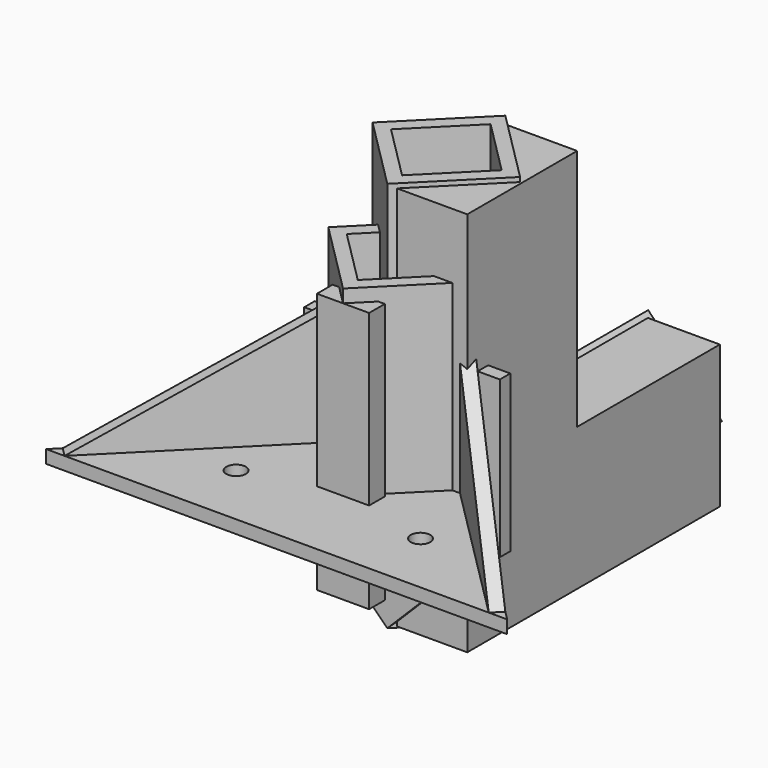
from build123d import *

# Parameters (mm, degrees)
BOX001_W                = 12
BOX001_H                = 100
BOX001_DEPTH            = 30
BOX_W                   = 16
BOX_H                   = 16
BOX_DEPTH               = 20
BOX002_W                = 30
BOX002_H                = 2
BOX002_DEPTH            = 24
CYLINDER001_R           = 1.5
CYLINDER001_DEPTH       = 10
CYLINDER001_PITCH_ANGLE = 90
CYLINDER_R              = 1.5
CYLINDER_DEPTH          = 10
CYLINDER002_R           = 1.5
CYLINDER002_DEPTH       = 10
CYLINDER002_ROLL_ANGLE  = 90
BOX003_W                = 12
BOX003_H                = 12
BOX003_DEPTH            = 100
PAD002_DEPTH            = 2
PAD001_DEPTH            = 2
SKETCH_R                = 1.5
PAD_DEPTH               = 2
BOX004_W                = 16
BOX004_H                = 16
BOX004_DEPTH            = 30
CUT001_PLACEMENT_ANGLE  = 45
BOX005_W                = 12
BOX005_H                = 12
BOX005_DEPTH            = 50
BOX005_PLACEMENT_ANGLE  = 45
BOX006_W                = 12
BOX006_H                = 50
BOX006_DEPTH            = 12
BOX006_PITCH_ANGLE      = 45
PAD003_DEPTH            = 11.6
BOX008_W                = 16
BOX008_H                = 16
BOX008_DEPTH            = 60
BOX008_PLACEMENT_ANGLE  = 45
BOX007_W                = 16
BOX007_H                = 50
BOX007_DEPTH            = 16
BOX007_PITCH_ANGLE      = 45
BOX009_W                = 12
BOX009_H                = 12
BOX009_DEPTH            = 50
BOX009_PLACEMENT_ANGLE  = 45
CYLINDER003_R           = 1.5
CYLINDER003_DEPTH       = 30
CYLINDER003_ROLL_ANGLE  = 90
BOX011_W                = 8
BOX011_H                = 3
BOX011_DEPTH            = 40
BOX010_W                = 16
BOX010_H                = 16
BOX010_DEPTH            = 30
BOX010_PLACEMENT_ANGLE  = 45


with BuildPart() as box001:
    # Box001 → Box001 (new body)
    with BuildSketch(Plane(origin=(-6, 0, 0), x_dir=(1, 0, 0), z_dir=(0, 0, 1))):
        with Locations((6, 50)):
            Rectangle(BOX001_W, BOX001_H)
    extrude(amount=BOX001_DEPTH)


with BuildPart() as box:
    # Box → Box (new body)
    with BuildSketch(Plane(origin=(-8, 0, -2), x_dir=(1, 0, 0), z_dir=(0, 0, 1))):
        with Locations((8, 8)):
            Rectangle(BOX_W, BOX_H)
    extrude(amount=BOX_DEPTH)


with BuildPart() as cut:
    # Box002 → Box002 (new body)
    with BuildSketch(Plane(origin=(-15, 0, -6), x_dir=(1, 0, 0), z_dir=(0, 0, 1))):
        with Locations((15, 1)):
            Rectangle(BOX002_W, BOX002_H)
    extrude(amount=BOX002_DEPTH)

    # Fusion: union Box
    add(box.part)

    # Cut: cut Box001
    add(box001.part, mode=Mode.SUBTRACT)


with BuildPart() as cylinder001:
    # Cylinder001 → Cylinder001 (new body)
    with BuildSketch(Plane.XY):
        Circle(CYLINDER001_R)
    extrude(amount=CYLINDER001_DEPTH)


with BuildPart() as cylinder001_1:
    # Cylinder001 pitch: moved
    add(cylinder001.part.rotate(Axis((0, 0, 0), (0, 1, 0)), CYLINDER001_PITCH_ANGLE))


with BuildPart() as cylinder001_2:
    # Cylinder001 placement: moved
    add(cylinder001_1.part.moved(Location((0, 0, 15))))


with BuildPart() as cylinder:
    # Cylinder → Cylinder (new body)
    with BuildSketch(Plane.XY):
        Circle(CYLINDER_R)
    extrude(amount=CYLINDER_DEPTH)


with BuildPart() as cylinder002:
    # Cylinder002 → Cylinder002 (new body)
    with BuildSketch(Plane.XY):
        Circle(CYLINDER002_R)
    extrude(amount=CYLINDER002_DEPTH)


with BuildPart() as cylinder002_1:
    # Cylinder002 roll: moved
    add(cylinder002.part.rotate(Axis((0, 0, 0), (1, 0, 0)), CYLINDER002_ROLL_ANGLE))


with BuildPart() as cylinder002_2:
    # Cylinder002 placement: moved
    add(cylinder002_1.part.moved(Location((0, 10, 15))))


with BuildPart() as fusion002:
    # Box003 → Box003 (new body)
    with BuildSketch(Plane(origin=(-6, -6, 2), x_dir=(1, 0, 0), z_dir=(0, 0, 1))):
        with Locations((6, 6)):
            Rectangle(BOX003_W, BOX003_H)
    extrude(amount=BOX003_DEPTH)

    # Fusion002: union Cylinder001, Cylinder, Cylinder002
    add(cylinder001_2.part)
    add(cylinder.part)
    add(cylinder002_2.part)


with BuildPart() as pad002:
    # Sketch002 → Pad002 (new body)
    with BuildSketch(Plane.YZ.offset(6)):
        Polygon((-8, 20), (-8, 2), (-40, 2), align=None)
    extrude(amount=PAD002_DEPTH)


with BuildPart() as pad001:
    # Sketch001 → Pad001 (new body)
    with BuildSketch(Plane.XZ.offset(-8)):
        Polygon((-8, 20), (-8, 2), (-40, 2), align=None)
    extrude(amount=PAD001_DEPTH)


with BuildPart() as pad:
    # Sketch → Pad (new body)
    with BuildSketch(Plane.XY):
        Polygon((8, 8), (-42, 8), (8, -42), align=None)
        with Locations((-20, 0)):
            Circle(SKETCH_R, mode=Mode.SUBTRACT)
        with Locations((0, -20)):
            Circle(SKETCH_R, mode=Mode.SUBTRACT)
    extrude(amount=PAD_DEPTH)


with BuildPart() as cut001:
    # Box004 → Box004 (new body)
    with BuildSketch(Plane(origin=(-8, -8, 0), x_dir=(1, 0, 0), z_dir=(0, 0, 1))):
        with Locations((8, 8)):
            Rectangle(BOX004_W, BOX004_H)
    extrude(amount=BOX004_DEPTH)

    # Fusion001: union Pad002, Pad001, Pad
    add(pad002.part)
    add(pad001.part)
    add(pad.part)

    # Cut001: cut Fusion002
    add(fusion002.part, mode=Mode.SUBTRACT)


with BuildPart() as cut001_1:
    # Cut001 placement: moved
    add(cut001.part.rotate(Axis((0, 0, 0), (0, 0, 1)), CUT001_PLACEMENT_ANGLE))


with BuildPart() as box005:
    # Box005 → Box005 (new body)
    with BuildSketch(Plane.XY):
        with Locations((6, 6)):
            Rectangle(BOX005_W, BOX005_H)
    extrude(amount=BOX005_DEPTH)


with BuildPart() as box005_1:
    # Box005 placement: moved
    add(box005.part.rotate(Axis((0, 0, 0), (0, 0, 1)), BOX005_PLACEMENT_ANGLE))


with BuildPart() as fusion004:
    # Box006 → Box006 (new body)
    with BuildSketch(Plane.XY):
        with Locations((6, 25)):
            Rectangle(BOX006_W, BOX006_H)
    extrude(amount=BOX006_DEPTH)


with BuildPart() as fusion004_1:
    # Box006 pitch: moved
    add(fusion004.part.rotate(Axis((0, 0, 0), (0, 1, 0)), BOX006_PITCH_ANGLE))


with BuildPart() as fusion004_2:
    # Box006 placement: moved
    add(fusion004_1.part.moved(Location((-8.48528, 2, -8))))

    # Fusion004: union Box005
    add(box005_1.part)


with BuildPart() as pad003:
    # Sketch003 → Pad003 (new body)
    with BuildSketch(Plane.YZ):
        Polygon((-2, 40), (-2, -19.128769), (46.415401, -19.128769), (46.415401, 2.748697), (19.065275, 2.748697), (19.065275, 40), align=None)
    extrude(amount=PAD003_DEPTH)


with BuildPart() as box008:
    # Box008 → Box008 (new body)
    with BuildSketch(Plane.XY):
        with Locations((8, 8)):
            Rectangle(BOX008_W, BOX008_H)
    extrude(amount=BOX008_DEPTH)


with BuildPart() as box008_1:
    # Box008 placement: moved
    add(box008.part.moved(Location((0, -2.82843, -19.3137))).rotate(Axis((0, -2.82843, -19.3137), (0, 0, 1)), BOX008_PLACEMENT_ANGLE))


with BuildPart() as cut002:
    # Box007 → Box007 (new body)
    with BuildSketch(Plane.XY):
        with Locations((8, 25)):
            Rectangle(BOX007_W, BOX007_H)
    extrude(amount=BOX007_DEPTH)


with BuildPart() as cut002_1:
    # Box007 pitch: moved
    add(cut002.part.rotate(Axis((0, 0, 0), (0, 1, 0)), BOX007_PITCH_ANGLE))


with BuildPart() as cut002_2:
    # Box007 placement: moved
    add(cut002_1.part.moved(Location((-11.3137, -2.82843, -8))))

    # Fusion003: union Pad003, Box008
    add(pad003.part)
    add(box008_1.part)

    # Cut002: cut Fusion004
    add(fusion004_2.part, mode=Mode.SUBTRACT)


with BuildPart() as box009:
    # Box009 → Box009 (new body)
    with BuildSketch(Plane.XY):
        with Locations((6, 6)):
            Rectangle(BOX009_W, BOX009_H)
    extrude(amount=BOX009_DEPTH)


with BuildPart() as box009_1:
    # Box009 placement: moved
    add(box009.part.moved(Location((0, -8.48528, 0))).rotate(Axis((0, -8.48528, 0), (0, 0, 1)), BOX009_PLACEMENT_ANGLE))


with BuildPart() as fusion006:
    # Cylinder003 → Cylinder003 (new body)
    with BuildSketch(Plane.XY):
        Circle(CYLINDER003_R)
    extrude(amount=CYLINDER003_DEPTH)


with BuildPart() as fusion006_1:
    # Cylinder003 roll: moved
    add(fusion006.part.rotate(Axis((0, 0, 0), (1, 0, 0)), CYLINDER003_ROLL_ANGLE))


with BuildPart() as fusion006_2:
    # Cylinder003 placement: moved
    add(fusion006_1.part.moved(Location((0, 0, -7))))

    # Fusion006: union Box009
    add(box009_1.part)


with BuildPart() as box011:
    # Box011 → Box011 (new body)
    with BuildSketch(Plane(origin=(-4, -11.3137, -12), x_dir=(1, 0, 0), z_dir=(0, 0, 1))):
        with Locations((4, 1.5)):
            Rectangle(BOX011_W, BOX011_H)
    extrude(amount=BOX011_DEPTH)


with BuildPart() as cut003:
    # Box010 → Box010 (new body)
    with BuildSketch(Plane.XY):
        with Locations((8, 8)):
            Rectangle(BOX010_W, BOX010_H)
    extrude(amount=BOX010_DEPTH)


with BuildPart() as cut003_1:
    # Box010 placement: moved
    add(cut003.part.moved(Location((0, -11.3137, -2))).rotate(Axis((0, -11.3137, -2), (0, 0, 1)), BOX010_PLACEMENT_ANGLE))

    # Fusion005: union Box011
    add(box011.part)

    # Cut003: cut Fusion006
    add(fusion006_2.part, mode=Mode.SUBTRACT)


solid = Compound([cut.part, cut001_1.part, cut002_2.part, cut003_1.part])
